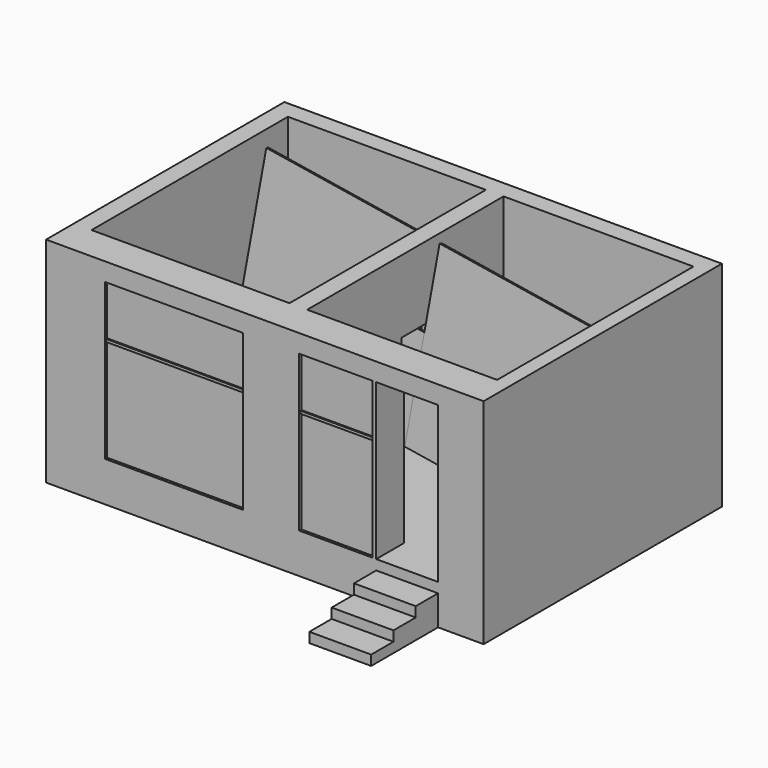
from build123d import *

# Parameters (mm, degrees)
F1_DEPTH  = 3260
F0_W      = 73.2982206345
F0_H      = 651.3152122498
F2_W      = 8201.365070343
F2_H      = 5582.9607772827
F3_DEPTH  = 750
F5_DEPTH  = 1158.5292816162
F6_W      = 331.645565033
F6_H      = 880
F7_DEPTH  = 1360
F8_W      = 2591.5477871895
F8_H      = 651.3152122498
F8_W_2    = 1370
F8_W_3    = 1158.5292816162
F9_DEPTH  = 340
F10_W     = 840.0592803955
F10_H     = 331.645565033
F11_DEPTH = 1360
F12_W     = 2591.5477871895
F12_H     = 20
F13_DEPTH = 2920
F12_W_2   = 1370
F14_W     = 2591.5477871895
F14_H     = 50
F15_DEPTH = 25
F14_W_2   = 1370
F21_DEPTH = 100
F22_DEPTH = 350
F24_DEPTH = 3547.9820241107
F26_DEPTH = 3502.0179758893


with BuildPart() as f1:
    # F0 (on Top) → F1 (new body)
    with BuildSketch(Plane.XY):
        Polygon((-165.8227825165, 1951.8810272217), (-165.8227825165, 440), (165.8227825165, 440), (165.8227825165, 1951.8810272217), (3725.8227825165, 1951.8810272217), (3725.8227825165, -2648.1189727783), (3139.1799449921, -2648.1189727783), (3139.1799449921, -3299.4341850281), (3993.8967227936, -3299.4341850281), (3993.8967227936, 2283.5265922546), (-1524.6810913086, 2283.5265922546), (-1524.6810913086, 1951.8810272217), align=None)
    extrude(amount=F1_DEPTH)



with BuildPart() as f1b:
    # F0 (on Top) → F1, piece 2 (new body)
    with BuildSketch(Plane.XY):
        Polygon((165.8227825165, -440), (-165.8227825165, -440), (-165.8227825165, -2648.1189727783), (-515.7937407494, -2648.1189727783), (-515.7937407494, -3299.4341850281), (537.3524427414, -3299.4341850281), (537.3524427414, -2648.1189727783), (165.8227825165, -2648.1189727783), align=None)
    extrude(amount=F1_DEPTH)


with BuildPart() as f1c:
    # F0 (on Top) → F1, piece 3 (new body)
    with BuildSketch(Plane.XY):
        Polygon((-3875.8227825165, -2648.1189727783), (-3875.8227825165, 1951.8810272217), (-2364.7403717041, 1951.8810272217), (-2364.7403717041, 2283.5265922546), (-4207.4683475494, 2283.5265922546), (-4207.4683475494, -3299.4341850281), (-3107.3415279388, -3299.4341850281), (-3107.3415279388, -2648.1189727783), align=None)
    extrude(amount=F1_DEPTH)


with BuildPart() as f1d:
    # F0 (on Top) → F1, piece 4 (new body)
    with BuildSketch(Plane.XY):
        with Locations((1944.0015530586, -2973.7765789032)):
            Rectangle(F0_W, F0_H)
    extrude(amount=F1_DEPTH)


with BuildPart() as f1_1:
    add(f1.part)

    add(f1b.part)  # F3 merges F1b

    add(f1c.part)  # F3 merges F1c

    add(f1d.part)  # F3 merges F1d
    # F2 (on face) → F3 (join)
    with BuildSketch(Plane(origin=(0, 0, 0), x_dir=(1, 0, 0), z_dir=(0, 0, -1))):
        with Locations((-106.7858123779, 507.9537963867)):
            Rectangle(F2_W, F2_H)
    extrude(amount=F3_DEPTH)

    # F4 (on face) → F5 (join, through all)
    with BuildSketch(Plane(origin=(3139.1799449921, 0, 0), x_dir=(0, -1, 0), z_dir=(-1, 0, 0))):
        Polygon((3821.626663208, -187.5), (3299.4341850281, -187.5), (3299.4341850281, -750), (4866.0116195679, -750), (4866.0116195679, -562.5), (4343.8191413879, -562.5), (4343.8191413879, -375), (3821.626663208, -375), align=None)
    extrude(amount=F5_DEPTH)

    # F6 (on face) → F7 (join, through all)
    with BuildSketch(Plane.XY.offset(3260)):
        Rectangle(F6_W, F6_H)
    extrude(amount=-F7_DEPTH)

    # F8 (on face) → F9 (join, through all)
    with BuildSketch(Plane.XY.offset(3260)):
        with Locations((-1811.5676343441, -2973.7765789032)):
            Rectangle(F8_W, F8_H)
        with Locations((1222.3524427414, -2973.7765789032)):
            Rectangle(F8_W_2, F8_H)
        with Locations((2559.915304184, -2973.7765789032)):
            Rectangle(F8_W_3, F8_H)
    extrude(amount=-F9_DEPTH)

    # F10 (on face) → F11 (join, through all)
    with BuildSketch(Plane.XY.offset(3260)):
        with Locations((-1944.7107315063, 2117.7038097382)):
            Rectangle(F10_W, F10_H)
    extrude(amount=-F11_DEPTH)



with BuildPart() as f13:
    # F12 (on face) → F13 (new body, through all)
    with BuildSketch(Plane.XY):
        with Locations((-1811.5676343441, -3239.4341850281)):
            Rectangle(F12_W, F12_H)
    extrude(amount=F13_DEPTH)


with BuildPart() as f13b:
    # F12 (on face) → F13, piece 2 (new body, through all)
    with BuildSketch(Plane.XY):
        with Locations((1222.3524427414, -3239.4341850281)):
            Rectangle(F12_W_2, F12_H)
    extrude(amount=F13_DEPTH)


with BuildPart() as f15:
    # F14 (on face) → F15 (new body)
    with BuildSketch(Plane.XZ.offset(3249.4341850281)):
        with Locations((-1811.5676343441, 1945)):
            Rectangle(F14_W, F14_H)
    extrude(amount=F15_DEPTH)


with BuildPart() as f15b:
    # F14 (on face) → F15, piece 2 (new body)
    with BuildSketch(Plane.XZ.offset(3249.4341850281)):
        with Locations((1222.3524427414, 1945)):
            Rectangle(F14_W_2, F14_H)
    extrude(amount=F15_DEPTH)


with BuildPart() as f21:
    # F20 (on line) → F21 (new body)
    with BuildSketch(Plane(origin=(40.7397991721, -8.2256812816, 0), x_dir=(0.1979138976, 0.9802194087, 0), z_dir=(0.9802194087, -0.1979138976, 0))):
        Polygon((-244.9719798503, 8.3164676327), (-205.8460758209, 0), (168.394967651, 1760.6656813209), (129.2690636217, 1768.9821489536), align=None)
    extrude(amount=F21_DEPTH)


with BuildPart() as f1_2:
    add(f1_1.part)

    add(f21.part)  # F22 merges F21
    # F20 (on line) → F22 (join)
    with BuildSketch(Plane(origin=(40.7397991721, -8.2256812816, 0), x_dir=(0.1979138976, 0.9802194087, 0), z_dir=(0.9802194087, -0.1979138976, 0))):
        Polygon((-244.9719798503, 8.3164676327), (-205.8460758209, 0), (168.394967651, 1760.6656813209), (129.2690636217, 1768.9821489536), align=None)
    extrude(amount=-F22_DEPTH)


with BuildPart() as f24:
    # F23 (on face) → F24 (new body, through all)
    with BuildSketch(Plane(origin=(138.7617400392, -28.0170710419, 0), x_dir=(0.1979138976, 0.9802194087, 0), z_dir=(0.9802194087, -0.1979138976, 0))):
        Polygon((420.3454307666, 3138.3887899809), (129.2690636217, 1768.9821489536), (-244.9719798503, 8.3164676327), (-205.8460758209, 0), (168.394967651, 1760.6656813209), (459.4713347959, 3130.0723223482), align=None)
    extrude(amount=F24_DEPTH)


with BuildPart() as f26:
    # F25 (on face) → F26 (new body, through all)
    with BuildSketch(Plane(origin=(-302.3369938628, 61.0441828796, 0), x_dir=(-0.1979138976, -0.9802194087, 0), z_dir=(-0.9802194087, 0.1979138976, 0))):
        Polygon((244.9719798503, 8.3164676327), (-129.2690636217, 1768.9821489536), (-420.3454307666, 3138.3887899809), (-459.4713347959, 3130.0723223482), (-168.394967651, 1760.6656813209), (205.8460758209, 0), align=None)
    extrude(amount=F26_DEPTH)


solid = Compound([f13.part, f13b.part, f15.part, f15b.part, f1_2.part, f24.part, f26.part])
